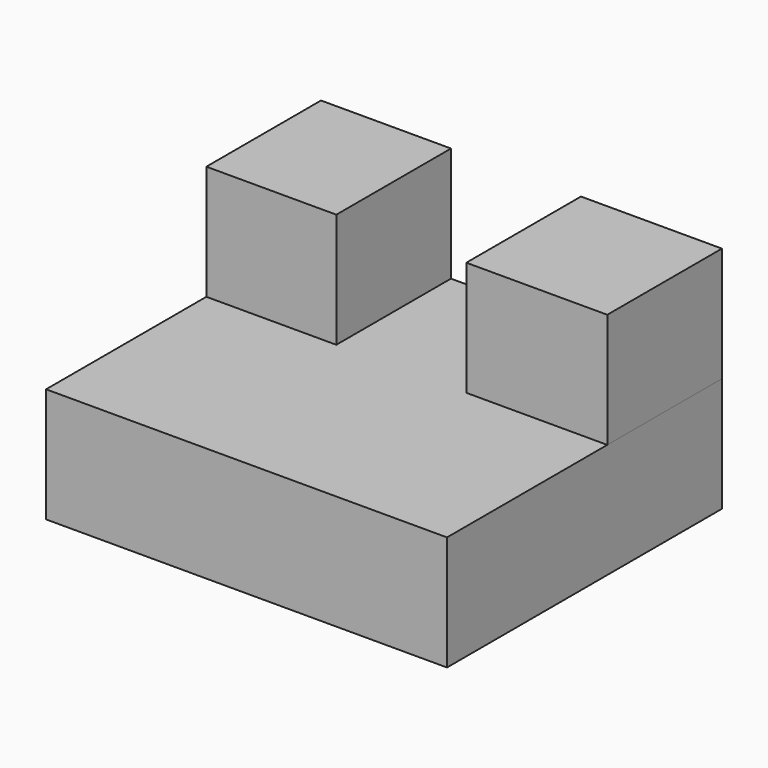
from build123d import *

# Parameters (mm, degrees)
F0_W     = 88.9
F0_H     = 25.4
F1_DEPTH = 76.2
F2_W     = 31.256863
F2_H     = 31.777021
F3_DEPTH = 25.4
F4_W     = 28.821568
F4_H     = 31.777021
F5_DEPTH = 25.4


with BuildPart() as f1:
    # F0 (on Front) → F1 (new body)
    with BuildSketch(Plane.XZ):
        with Locations((-20.286223, -27.021277)):
            Rectangle(F0_W, F0_H)
    extrude(amount=F1_DEPTH)

    # F2 (on face) → F3 (join)
    with BuildSketch(Plane.XY.offset(-14.321277)):
        with Locations((8.535346, -15.88851)):
            Rectangle(F2_W, F2_H)
    extrude(amount=F3_DEPTH)

    # F4 (on face) → F5 (join)
    with BuildSketch(Plane.XY.offset(-14.321277)):
        with Locations((-50.325439, -15.88851)):
            Rectangle(F4_W, F4_H)
    extrude(amount=F5_DEPTH)


solid = f1.part
